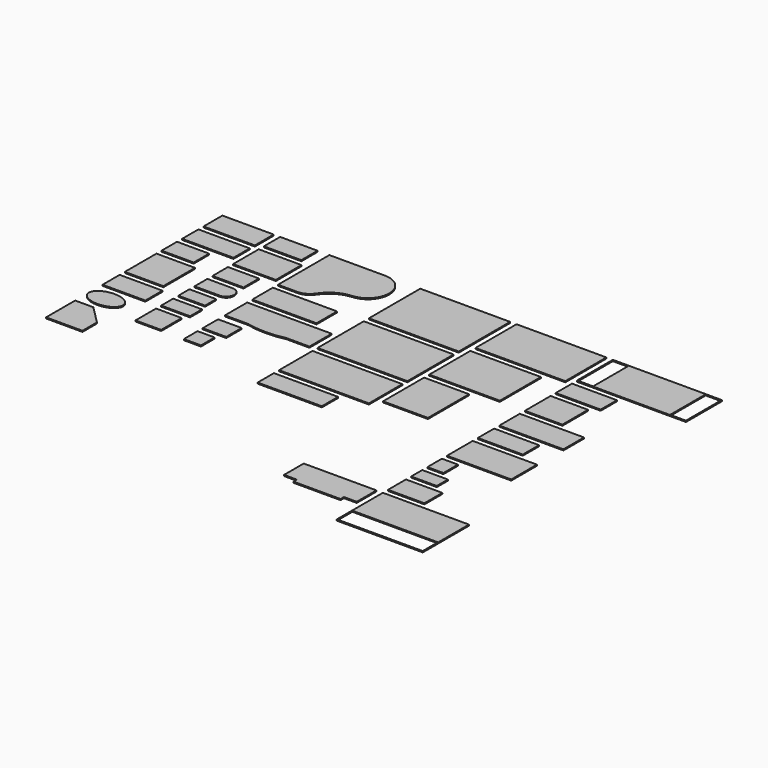
from build123d import *

# Parameters (mm, degrees)
F0_W     = 1219.2
F0_H     = 558.8
F0_H_2   = 482.6
F0_W_2   = 762
F0_H_3   = 457.2
F0_W_3   = 914.4
F0_H_4   = 939.8
F0_W_4   = 1016
F0_H_5   = 508
F0_W_5   = 889
F0_H_6   = 762
F0_W_6   = 736.6
F0_W_7   = 635
F0_H_7   = 330.2
F0_W_8   = 685.8
F0_H_8   = 355.6
F0_W_9   = 609.6
F0_H_9   = 609.6
F0_W_10  = 1524
F0_W_11  = 558.8
F0_W_12  = 406.4
F0_H_10  = 406.4
F0_W_13  = 2133.6
F0_H_11  = 1524
F0_H_12  = 1371.6
F0_H_13  = 990.6
F0_H_14  = 1219.2
F0_W_14  = 1676.4
F0_W_15  = 1066.8
F0_W_16  = 2590.8
F0_H_15  = 1066.8
F0_W_17  = 374.65
F0_H_16  = 1054.1
F0_W_18  = 381
F0_H_17  = 431.8
F0_W_19  = 863.6
F0_H_18  = 533.4
F0_W_20  = 2044.7
F0_W_21  = 2032
F0_H_19  = 450.85
F1_DEPTH = 25.4


with BuildPart() as f1:
    # F0 (on Top) → F1 (new body)
    with BuildSketch(Plane.XY):
        with Locations((609.6, -279.4)):
            Rectangle(F0_W, F0_H)
        with Locations((609.6, -952.5)):
            Rectangle(F0_W, F0_H_2)
        with Locations((381, -1574.8)):
            Rectangle(F0_W_2, F0_H_3)
        with Locations((457.2, -2425.7)):
            Rectangle(F0_W_3, F0_H_4)
        with Locations((508, -3302)):
            Rectangle(F0_W_4, F0_H_5)
        with BuildLine():
            add(Edge.make_bspline(
                [(0, -3962.4), (0, -4402.340905), (609.6, -4182.370453), (1219.2, -3962.4), (609.6, -3742.429547), (0, -3522.459095), (0, -3962.4)],
                knots=[0, 0, 0, 2.094395, 2.094395, 4.18879, 4.18879, 6.283185, 6.283185, 6.283185], degree=2, weights=[1, 0.5, 1, 0.5, 1, 0.5, 1]))
        make_face()
        with Locations((1816.1, -241.3)):
            Rectangle(F0_W_5, F0_H_2)
        with Locations((1879.6, -1016)):
            Rectangle(F0_W_4, F0_H_6)
        with Locations((1739.9, -1778)):
            Rectangle(F0_W_6, F0_H_3)
        with BuildLine():
            Line((1968.5, -2159), (1371.6, -2159))
            Line((1371.6, -2159), (1371.6, -2540))
            Line((1371.6, -2540), (1968.5, -2540))
            ThreePointArc((1968.5, -2540), (2159, -2349.5), (1968.5, -2159))
        make_face()
        with Locations((1689.1, -2857.5)):
            Rectangle(F0_W_7, F0_H_7)
        with Locations((1714.5, -3352.8)):
            Rectangle(F0_W_8, F0_H_8)
        with Locations((1676.4, -3987.8)):
            Rectangle(F0_W_9, F0_H_9)
        with BuildLine():
            Line((3860.8, 0), (2540, 0))
            Line((2540, 0), (2540, -1524))
            Line((2540, -1524), (2997.2, -1524))
            ThreePointArc((2997.2, -1524), (3177.354415, -1478.71623), (3314.684309, -1353.629327))
            ThreePointArc((3314.684309, -1353.629327), (3566.062797, -1116.478829), (3896.341171, -1014.755193))
            ThreePointArc((3896.341171, -1014.755193), (4368.488703, -490.218518), (3860.8, 0))
        make_face()
        with Locations((3302, -1981.2)):
            Rectangle(F0_W_10, F0_H_9)
        with BuildLine():
            Line((2540, -3098.8), (3086.1, -3098.8))
            ThreePointArc((3086.1, -3098.8), (3543.3, -3149.6), (4000.5, -3098.8))
            Line((4000.5, -3098.8), (4546.6, -3098.8))
            Line((4546.6, -3098.8), (4546.6, -2438.4))
            Line((4546.6, -2438.4), (2540, -2438.4))
            Line((2540, -2438.4), (2540, -3098.8))
        make_face()
        with Locations((2819.4, -3530.6)):
            Rectangle(F0_W_11, F0_H_3)
        with Locations((2743.2, -4114.8)):
            Rectangle(F0_W_12, F0_H_10)
        with Locations((5765.8, -762)):
            Rectangle(F0_W_13, F0_H_11)
        with Locations((5765.8, -2362.2)):
            Rectangle(F0_W_13, F0_H_12)
        with Locations((5765.8, -3695.7)):
            Rectangle(F0_W_13, F0_H_13)
        with Locations((8051.8, -609.6)):
            Rectangle(F0_W_13, F0_H_14)
        with Locations((7823.2, -1981.2)):
            Rectangle(F0_W_14, F0_H_14)
        with Locations((7518.4, -3352.8)):
            Rectangle(F0_W_15, F0_H_14)
        with Locations((10566.4, -533.4)):
            Rectangle(F0_W_16, F0_H_15)
        with Locations((9464.675, -533.4)):
            Rectangle(F0_W_17, F0_H_16, mode=Mode.SUBTRACT)
        with Locations((11668.125, -533.4)):
            Rectangle(F0_W_17, F0_H_16, mode=Mode.SUBTRACT)
        with Locations((9810.75, -1460.5)):
            Rectangle(F0_W_15, F0_H_2)
        with Locations((9721.85, -2235.2)):
            Rectangle(F0_W_5, F0_H_6)
        with Locations((10039.35, -3073.4)):
            Rectangle(F0_W_10, F0_H_9)
        with Locations((9810.75, -3771.9)):
            Rectangle(F0_W_15, F0_H_2)
        with Locations((10039.35, -4546.6)):
            Rectangle(F0_W_10, F0_H_6)
        with Locations((9467.85, -5295.9)):
            Rectangle(F0_W_18, F0_H_17)
        with Locations((9582.15, -5829.3)):
            Rectangle(F0_W_9, F0_H_7)
        with Locations((9709.15, -6413.5)):
            Rectangle(F0_W_19, F0_H_18)
        with Locations((10299.7, -7518.4)):
            Rectangle(F0_W_20, F0_H_12)
        with Locations((10299.7, -7972.425)):
            Rectangle(F0_W_21, F0_H_19, mode=Mode.SUBTRACT)
        Polygon((9124.95, -7416.8), (9124.95, -6832.6), (7397.75, -6832.6), (7397.75, -7416.8), (7702.55, -7416.8), (7702.55, -7518.4), (8820.15, -7518.4), (8820.15, -7416.8), align=None)
        Polygon((431.052294, -4368.8), (0, -4368.8), (0, -5232.4), (863.6, -5232.4), (863.6, -4801.347706), align=None)
        with Locations((5461, -4584.7)):
            Rectangle(F0_W_10, F0_H_2)
    extrude(amount=F1_DEPTH)


solid = f1.part
